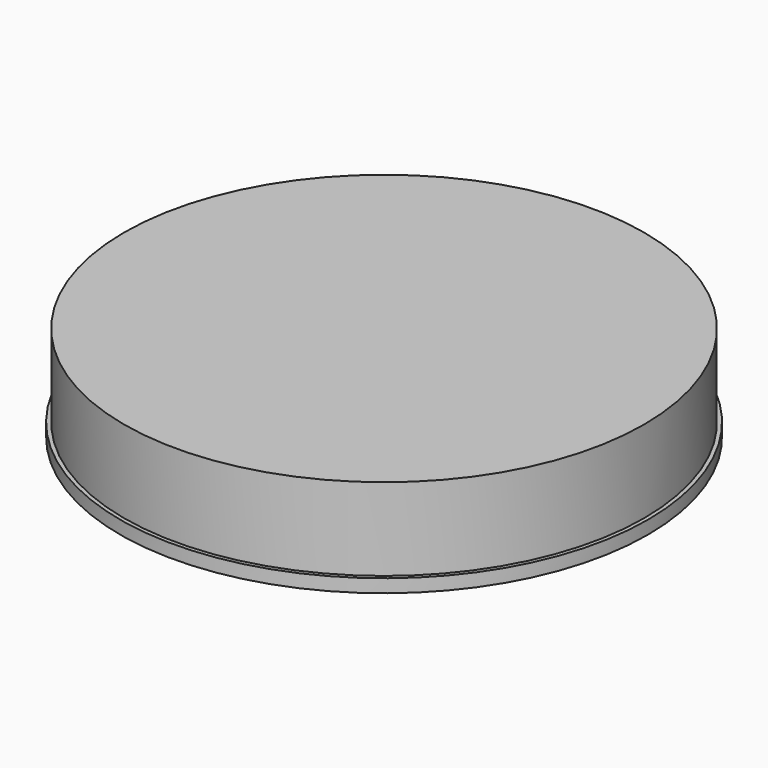
from build123d import *

# Parameters (mm, degrees)
F0_R     = 80
F1_DEPTH = 3
F2_R     = 78.8
F3_DEPTH = 25
F4_DEPTH = 1


with BuildPart() as f1:
    # F0 (on Top) → F1 (new body)
    with BuildSketch(Plane.XY):
        Circle(F0_R)
    extrude(amount=F1_DEPTH)

    # F2 (on face) → F3 (join)
    with BuildSketch(Plane.XY.offset(3)):
        Circle(F2_R)
    extrude(amount=F3_DEPTH)

    # F4 (add): a face of the model
    f4_faces = [f1.faces().sort_by_distance(p)[0] for p in [
        (0, 0, 0),
    ]]
    extrude(f4_faces, amount=F4_DEPTH)


solid = f1.part
